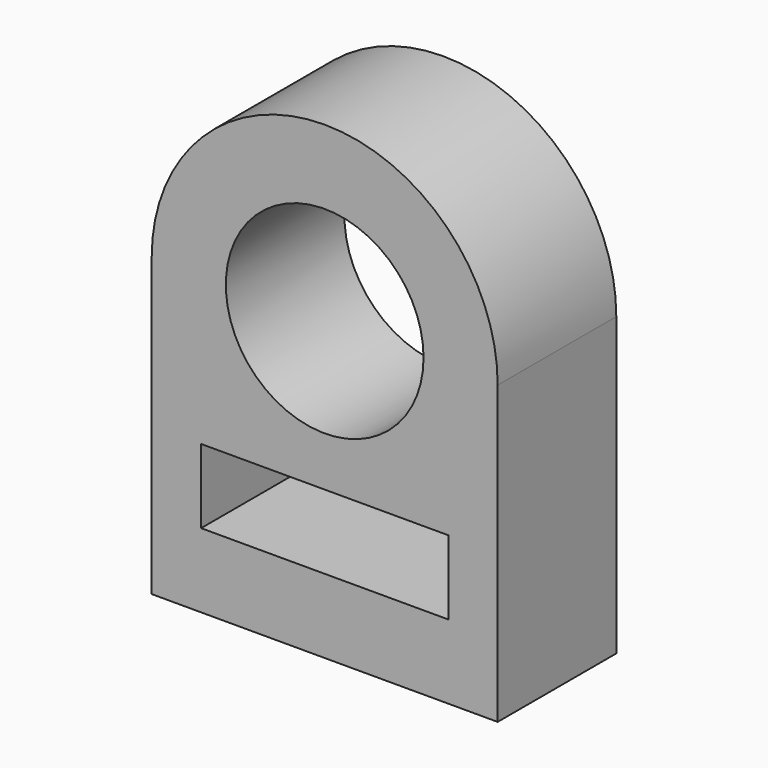
from build123d import *

# Parameters (mm, degrees)
F0_W     = 50
F0_H     = 15
F0_R     = 20
F1_DEPTH = 30


with BuildPart() as f1:
    # F0 (on Front) → F1 (new body)
    with BuildSketch(Plane.XZ):
        with BuildLine():
            Line((35, -60), (35, 0))
            ThreePointArc((35, 0), (0, 35), (-35, 0))
            Line((-35, 0), (-35, -60))
            Line((-35, -60), (35, -60))
        make_face()
        with Locations((0, -37.5)):
            Rectangle(F0_W, F0_H, mode=Mode.SUBTRACT)
        Circle(F0_R, mode=Mode.SUBTRACT)
        with BuildLine():
            Line((35, -60), (35, 0))
            ThreePointArc((35, 0), (0, 35), (-35, 0))
            Line((-35, 0), (-35, -60))
            Line((-35, -60), (35, -60))
        make_face()
        with Locations((0, -37.5)):
            Rectangle(F0_W, F0_H, mode=Mode.SUBTRACT)
        Circle(F0_R, mode=Mode.SUBTRACT)
    extrude(amount=F1_DEPTH)


solid = f1.part
